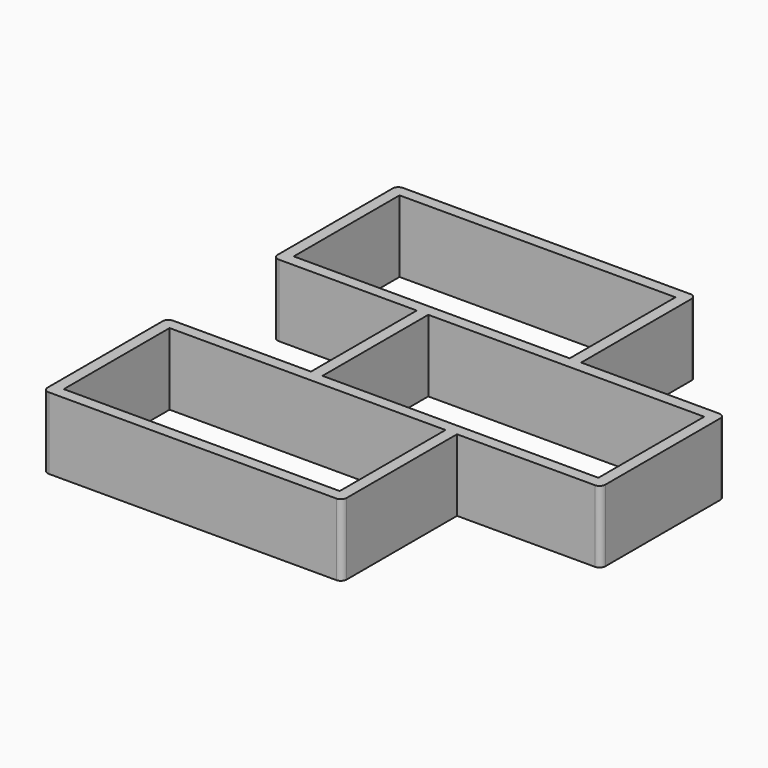
from build123d import *

# Parameters (mm, degrees)
F1_DEPTH = 5


with BuildPart() as f1:
    # F0 (on Top) → F1 (new body)
    with BuildSketch(Plane.XY):
        with BuildLine():
            Line((-41.8851405949, 29.0013556838), (-42.2851405949, 29.0013556838))
            Line((-42.2851405949, 29.0013556838), (-42.2851405949, 19.8013556838))
            Line((-42.2851405949, 19.8013556838), (-41.8851405949, 19.8013556838))
            ThreePointArc((-41.8851405949, 19.8013556838), (-41.6022978824, 19.6841983963), (-41.4851405949, 19.4013556838))
            Line((-41.4851405949, 19.4013556838), (-41.4851405949, 29.0013556838))
            Line((-41.4851405949, 29.0013556838), (-41.8851405949, 29.0013556838))
        make_face()
        with BuildLine():
            ThreePointArc((-41.4851405949, 39.4013556838), (-41.6022978824, 39.1185129713), (-41.8851405949, 39.0013556838))
            Line((-41.8851405949, 39.0013556838), (-32.2851405949, 39.0013556838))
            Line((-32.2851405949, 39.0013556838), (-32.2851405949, 39.4013556838))
            ThreePointArc((-32.2851405949, 39.4013556838), (-32.1679833073, 39.6841983963), (-31.8851405949, 39.8013556838))
            Line((-31.8851405949, 39.8013556838), (-41.4851405949, 39.8013556838))
            Line((-41.4851405949, 39.8013556838), (-41.4851405949, 39.4013556838))
        make_face()
        Polygon((-52.2851405949, 39.0013556838), (-52.2851405949, 29.8013556838), (-51.8851405949, 29.8013556838), (-51.4851405949, 29.8013556838), (-51.4851405949, 39.0013556838), (-51.8851405949, 39.0013556838), align=None)
        with BuildLine():
            Line((-62.2851405949, 49.4013556838), (-62.2851405949, 39.4013556838))
            ThreePointArc((-62.2851405949, 39.4013556838), (-62.1679833073, 39.6841983963), (-61.8851405949, 39.8013556838))
            Line((-61.8851405949, 39.8013556838), (-61.4851405949, 39.8013556838))
            Line((-61.4851405949, 39.8013556838), (-61.4851405949, 49.0013556838))
            Line((-61.4851405949, 49.0013556838), (-61.8851405949, 49.0013556838))
            ThreePointArc((-61.8851405949, 49.0013556838), (-62.1679833073, 49.1185129713), (-62.2851405949, 49.4013556838))
        make_face()
        with BuildLine():
            Line((-41.8851405949, 49.8013556838), (-61.8851405949, 49.8013556838))
            ThreePointArc((-61.8851405949, 49.8013556838), (-61.6022978824, 49.6841983963), (-61.4851405949, 49.4013556838))
            Line((-61.4851405949, 49.4013556838), (-61.4851405949, 49.0013556838))
            Line((-61.4851405949, 49.0013556838), (-42.2851405949, 49.0013556838))
            Line((-42.2851405949, 49.0013556838), (-42.2851405949, 49.4013556838))
            ThreePointArc((-42.2851405949, 49.4013556838), (-42.1679833073, 49.6841983963), (-41.8851405949, 49.8013556838))
        make_face()
        with BuildLine():
            Line((-61.4851405949, 29.0013556838), (-61.8851405949, 29.0013556838))
            ThreePointArc((-61.8851405949, 29.0013556838), (-62.1679833073, 29.1185129713), (-62.2851405949, 29.4013556838))
            Line((-62.2851405949, 29.4013556838), (-62.2851405949, 19.4013556838))
            ThreePointArc((-62.2851405949, 19.4013556838), (-62.1679833073, 19.6841983963), (-61.8851405949, 19.8013556838))
            Line((-61.8851405949, 19.8013556838), (-61.4851405949, 19.8013556838))
            Line((-61.4851405949, 19.8013556838), (-61.4851405949, 29.0013556838))
        make_face()
        with BuildLine():
            Line((-42.2851405949, 19.8013556838), (-61.4851405949, 19.8013556838))
            Line((-61.4851405949, 19.8013556838), (-61.4851405949, 19.4013556838))
            ThreePointArc((-61.4851405949, 19.4013556838), (-61.6022978824, 19.1185129713), (-61.8851405949, 19.0013556838))
            Line((-61.8851405949, 19.0013556838), (-41.8851405949, 19.0013556838))
            ThreePointArc((-41.8851405949, 19.0013556838), (-42.1679833073, 19.1185129713), (-42.2851405949, 19.4013556838))
            Line((-42.2851405949, 19.4013556838), (-42.2851405949, 19.8013556838))
        make_face()
        with BuildLine():
            Line((-32.2851405949, 39.0013556838), (-32.2851405949, 29.8013556838))
            Line((-32.2851405949, 29.8013556838), (-31.8851405949, 29.8013556838))
            ThreePointArc((-31.8851405949, 29.8013556838), (-31.6022978824, 29.6841983963), (-31.4851405949, 29.4013556838))
            Line((-31.4851405949, 29.4013556838), (-31.4851405949, 39.4013556838))
            ThreePointArc((-31.4851405949, 39.4013556838), (-31.6022978824, 39.1185129713), (-31.8851405949, 39.0013556838))
            Line((-31.8851405949, 39.0013556838), (-32.2851405949, 39.0013556838))
        make_face()
        with BuildLine():
            Line((-61.8851405949, 39.0013556838), (-52.2851405949, 39.0013556838))
            Line((-52.2851405949, 39.0013556838), (-52.2851405949, 39.4013556838))
            ThreePointArc((-52.2851405949, 39.4013556838), (-52.1679833073, 39.6841983963), (-51.8851405949, 39.8013556838))
            Line((-51.8851405949, 39.8013556838), (-61.4851405949, 39.8013556838))
            Line((-61.4851405949, 39.8013556838), (-61.4851405949, 39.4013556838))
            ThreePointArc((-61.4851405949, 39.4013556838), (-61.6022978824, 39.1185129713), (-61.8851405949, 39.0013556838))
        make_face()
        with BuildLine():
            Line((-42.2851405949, 49.0013556838), (-42.2851405949, 39.8013556838))
            Line((-42.2851405949, 39.8013556838), (-41.8851405949, 39.8013556838))
            Line((-41.8851405949, 39.8013556838), (-41.4851405949, 39.8013556838))
            Line((-41.4851405949, 39.8013556838), (-41.4851405949, 49.4013556838))
            ThreePointArc((-41.4851405949, 49.4013556838), (-41.6022978824, 49.1185129713), (-41.8851405949, 49.0013556838))
            Line((-41.8851405949, 49.0013556838), (-42.2851405949, 49.0013556838))
        make_face()
        with BuildLine():
            Line((-51.4851405949, 39.4013556838), (-51.4851405949, 39.0013556838))
            Line((-51.4851405949, 39.0013556838), (-41.8851405949, 39.0013556838))
            ThreePointArc((-41.8851405949, 39.0013556838), (-42.1679833073, 39.1185129713), (-42.2851405949, 39.4013556838))
            Line((-42.2851405949, 39.4013556838), (-42.2851405949, 39.8013556838))
            Line((-42.2851405949, 39.8013556838), (-51.8851405949, 39.8013556838))
            ThreePointArc((-51.8851405949, 39.8013556838), (-51.6022978824, 39.6841983963), (-51.4851405949, 39.4013556838))
        make_face()
        with BuildLine():
            ThreePointArc((-41.8851405949, 29.8013556838), (-41.6022978824, 29.6841983963), (-41.4851405949, 29.4013556838))
            Line((-41.4851405949, 29.4013556838), (-41.4851405949, 29.0013556838))
            Line((-41.4851405949, 29.0013556838), (-31.8851405949, 29.0013556838))
            ThreePointArc((-31.8851405949, 29.0013556838), (-32.1679833073, 29.1185129713), (-32.2851405949, 29.4013556838))
            Line((-32.2851405949, 29.4013556838), (-32.2851405949, 29.8013556838))
            Line((-32.2851405949, 29.8013556838), (-41.8851405949, 29.8013556838))
        make_face()
        with BuildLine():
            Line((-61.4851405949, 29.4013556838), (-61.4851405949, 29.0013556838))
            Line((-61.4851405949, 29.0013556838), (-51.8851405949, 29.0013556838))
            ThreePointArc((-51.8851405949, 29.0013556838), (-52.1679833073, 29.1185129713), (-52.2851405949, 29.4013556838))
            Line((-52.2851405949, 29.4013556838), (-52.2851405949, 29.8013556838))
            Line((-52.2851405949, 29.8013556838), (-61.8851405949, 29.8013556838))
            ThreePointArc((-61.8851405949, 29.8013556838), (-61.6022978824, 29.6841983963), (-61.4851405949, 29.4013556838))
        make_face()
        with BuildLine():
            ThreePointArc((-51.4851405949, 29.4013556838), (-51.6022978824, 29.1185129713), (-51.8851405949, 29.0013556838))
            Line((-51.8851405949, 29.0013556838), (-42.2851405949, 29.0013556838))
            Line((-42.2851405949, 29.0013556838), (-42.2851405949, 29.4013556838))
            ThreePointArc((-42.2851405949, 29.4013556838), (-42.1679833073, 29.6841983963), (-41.8851405949, 29.8013556838))
            Line((-41.8851405949, 29.8013556838), (-51.4851405949, 29.8013556838))
            Line((-51.4851405949, 29.8013556838), (-51.4851405949, 29.4013556838))
        make_face()
        with BuildLine():
            ThreePointArc((-42.2851405949, 39.4013556838), (-42.1679833073, 39.1185129713), (-41.8851405949, 39.0013556838))
            ThreePointArc((-41.8851405949, 39.0013556838), (-41.6022978824, 39.1185129713), (-41.4851405949, 39.4013556838))
            ThreePointArc((-41.4851405949, 39.4013556838), (-41.6022978824, 39.6841983963), (-41.8851405949, 39.8013556838))
            Line((-41.8851405949, 39.8013556838), (-42.2851405949, 39.8013556838))
            Line((-42.2851405949, 39.8013556838), (-42.2851405949, 39.4013556838))
        make_face()
        with BuildLine():
            Line((-32.2851405949, 39.4013556838), (-32.2851405949, 39.0013556838))
            Line((-32.2851405949, 39.0013556838), (-31.8851405949, 39.0013556838))
            ThreePointArc((-31.8851405949, 39.0013556838), (-31.6022978824, 39.1185129713), (-31.4851405949, 39.4013556838))
            ThreePointArc((-31.4851405949, 39.4013556838), (-31.6022978824, 39.6841983963), (-31.8851405949, 39.8013556838))
            ThreePointArc((-31.8851405949, 39.8013556838), (-32.1679833073, 39.6841983963), (-32.2851405949, 39.4013556838))
        make_face()
        with BuildLine():
            Line((-41.8851405949, 19.8013556838), (-42.2851405949, 19.8013556838))
            Line((-42.2851405949, 19.8013556838), (-42.2851405949, 19.4013556838))
            ThreePointArc((-42.2851405949, 19.4013556838), (-42.1679833073, 19.1185129713), (-41.8851405949, 19.0013556838))
            ThreePointArc((-41.8851405949, 19.0013556838), (-41.6022978824, 19.1185129713), (-41.4851405949, 19.4013556838))
            ThreePointArc((-41.4851405949, 19.4013556838), (-41.6022978824, 19.6841983963), (-41.8851405949, 19.8013556838))
        make_face()
        with BuildLine():
            ThreePointArc((-32.2851405949, 29.4013556838), (-32.1679833073, 29.1185129713), (-31.8851405949, 29.0013556838))
            ThreePointArc((-31.8851405949, 29.0013556838), (-31.6022978824, 29.1185129713), (-31.4851405949, 29.4013556838))
            ThreePointArc((-31.4851405949, 29.4013556838), (-31.6022978824, 29.6841983963), (-31.8851405949, 29.8013556838))
            Line((-31.8851405949, 29.8013556838), (-32.2851405949, 29.8013556838))
            Line((-32.2851405949, 29.8013556838), (-32.2851405949, 29.4013556838))
        make_face()
        with BuildLine():
            Line((-42.2851405949, 29.4013556838), (-42.2851405949, 29.0013556838))
            Line((-42.2851405949, 29.0013556838), (-41.8851405949, 29.0013556838))
            ThreePointArc((-41.8851405949, 29.0013556838), (-41.6022978824, 29.1185129713), (-41.4851405949, 29.4013556838))
            ThreePointArc((-41.4851405949, 29.4013556838), (-41.6022978824, 29.6841983963), (-41.8851405949, 29.8013556838))
            ThreePointArc((-41.8851405949, 29.8013556838), (-42.1679833073, 29.6841983963), (-42.2851405949, 29.4013556838))
        make_face()
        with BuildLine():
            ThreePointArc((-52.2851405949, 39.4013556838), (-52.1679833073, 39.1185129713), (-51.8851405949, 39.0013556838))
            Line((-51.8851405949, 39.0013556838), (-51.4851405949, 39.0013556838))
            Line((-51.4851405949, 39.0013556838), (-51.4851405949, 39.4013556838))
            ThreePointArc((-51.4851405949, 39.4013556838), (-51.6022978824, 39.6841983963), (-51.8851405949, 39.8013556838))
            ThreePointArc((-51.8851405949, 39.8013556838), (-52.1679833073, 39.6841983963), (-52.2851405949, 39.4013556838))
        make_face()
        with BuildLine():
            ThreePointArc((-41.8851405949, 39.8013556838), (-41.6022978824, 39.6841983963), (-41.4851405949, 39.4013556838))
            Line((-41.4851405949, 39.4013556838), (-41.4851405949, 39.8013556838))
            Line((-41.4851405949, 39.8013556838), (-41.8851405949, 39.8013556838))
        make_face()
        with BuildLine():
            ThreePointArc((-62.2851405949, 29.4013556838), (-62.1679833073, 29.1185129713), (-61.8851405949, 29.0013556838))
            Line((-61.8851405949, 29.0013556838), (-61.4851405949, 29.0013556838))
            Line((-61.4851405949, 29.0013556838), (-61.4851405949, 29.4013556838))
            ThreePointArc((-61.4851405949, 29.4013556838), (-61.6022978824, 29.6841983963), (-61.8851405949, 29.8013556838))
            ThreePointArc((-61.8851405949, 29.8013556838), (-62.1679833073, 29.6841983963), (-62.2851405949, 29.4013556838))
        make_face()
        with BuildLine():
            ThreePointArc((-61.8851405949, 19.8013556838), (-62.1679833073, 19.6841983963), (-62.2851405949, 19.4013556838))
            ThreePointArc((-62.2851405949, 19.4013556838), (-62.1679833073, 19.1185129713), (-61.8851405949, 19.0013556838))
            ThreePointArc((-61.8851405949, 19.0013556838), (-61.6022978824, 19.1185129713), (-61.4851405949, 19.4013556838))
            Line((-61.4851405949, 19.4013556838), (-61.4851405949, 19.8013556838))
            Line((-61.4851405949, 19.8013556838), (-61.8851405949, 19.8013556838))
        make_face()
        with BuildLine():
            ThreePointArc((-61.8851405949, 49.8013556838), (-62.1679833073, 49.6841983963), (-62.2851405949, 49.4013556838))
            ThreePointArc((-62.2851405949, 49.4013556838), (-62.1679833073, 49.1185129713), (-61.8851405949, 49.0013556838))
            Line((-61.8851405949, 49.0013556838), (-61.4851405949, 49.0013556838))
            Line((-61.4851405949, 49.0013556838), (-61.4851405949, 49.4013556838))
            ThreePointArc((-61.4851405949, 49.4013556838), (-61.6022978824, 49.6841983963), (-61.8851405949, 49.8013556838))
        make_face()
        with BuildLine():
            ThreePointArc((-62.2851405949, 39.4013556838), (-62.1679833073, 39.1185129713), (-61.8851405949, 39.0013556838))
            ThreePointArc((-61.8851405949, 39.0013556838), (-61.6022978824, 39.1185129713), (-61.4851405949, 39.4013556838))
            Line((-61.4851405949, 39.4013556838), (-61.4851405949, 39.8013556838))
            Line((-61.4851405949, 39.8013556838), (-61.8851405949, 39.8013556838))
            ThreePointArc((-61.8851405949, 39.8013556838), (-62.1679833073, 39.6841983963), (-62.2851405949, 39.4013556838))
        make_face()
        with BuildLine():
            ThreePointArc((-41.4851405949, 29.4013556838), (-41.6022978824, 29.1185129713), (-41.8851405949, 29.0013556838))
            Line((-41.8851405949, 29.0013556838), (-41.4851405949, 29.0013556838))
            Line((-41.4851405949, 29.0013556838), (-41.4851405949, 29.4013556838))
        make_face()
        with BuildLine():
            ThreePointArc((-52.2851405949, 29.4013556838), (-52.1679833073, 29.1185129713), (-51.8851405949, 29.0013556838))
            ThreePointArc((-51.8851405949, 29.0013556838), (-51.6022978824, 29.1185129713), (-51.4851405949, 29.4013556838))
            Line((-51.4851405949, 29.4013556838), (-51.4851405949, 29.8013556838))
            Line((-51.4851405949, 29.8013556838), (-51.8851405949, 29.8013556838))
            ThreePointArc((-51.8851405949, 29.8013556838), (-52.1679833073, 29.6841983963), (-52.2851405949, 29.4013556838))
        make_face()
        with BuildLine():
            Line((-52.2851405949, 39.4013556838), (-52.2851405949, 39.0013556838))
            Line((-52.2851405949, 39.0013556838), (-51.8851405949, 39.0013556838))
            ThreePointArc((-51.8851405949, 39.0013556838), (-52.1679833073, 39.1185129713), (-52.2851405949, 39.4013556838))
        make_face()
        with BuildLine():
            Line((-42.2851405949, 49.4013556838), (-42.2851405949, 49.0013556838))
            Line((-42.2851405949, 49.0013556838), (-41.8851405949, 49.0013556838))
            ThreePointArc((-41.8851405949, 49.0013556838), (-41.6022978824, 49.1185129713), (-41.4851405949, 49.4013556838))
            ThreePointArc((-41.4851405949, 49.4013556838), (-41.6022978824, 49.6841983963), (-41.8851405949, 49.8013556838))
            ThreePointArc((-41.8851405949, 49.8013556838), (-42.1679833073, 49.6841983963), (-42.2851405949, 49.4013556838))
        make_face()
        with BuildLine():
            Line((-51.8851405949, 29.8013556838), (-52.2851405949, 29.8013556838))
            Line((-52.2851405949, 29.8013556838), (-52.2851405949, 29.4013556838))
            ThreePointArc((-52.2851405949, 29.4013556838), (-52.1679833073, 29.6841983963), (-51.8851405949, 29.8013556838))
        make_face()
    extrude(amount=F1_DEPTH)


solid = f1.part
